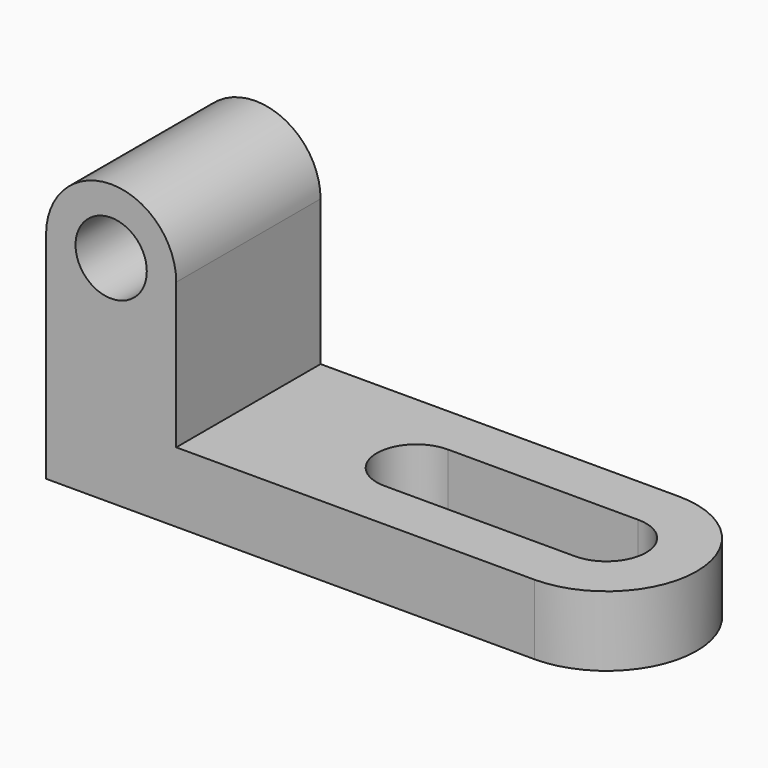
from build123d import *

# Parameters (mm, degrees)
F0_R     = 7.527389
F1_DEPTH = 38.1
F3_DEPTH = 14.789578
F4_DEPTH = 14.789578


with BuildPart() as f1:
    # F0 (on Front) → F1 (new body)
    with BuildSketch(Plane.XZ):
        with BuildLine():
            Line((-62.946253, -7.394289), (62.946253, -7.394289))
            Line((62.946253, -7.394289), (62.946253, 7.394289))
            Line((62.946253, 7.394289), (-35.454668, 7.394289))
            Line((-35.454668, 7.394289), (-35.454668, 38.109027))
            ThreePointArc((-35.454668, 38.109027), (-49.20046, 51.854819), (-62.946253, 38.109027))
            Line((-62.946253, 38.109027), (-62.946253, 7.394289))
            Line((-62.946253, 7.394289), (-62.946253, -7.394289))
        make_face()
        with Locations((-49.20046, 38.109027)):
            Circle(F0_R, mode=Mode.SUBTRACT)
    extrude(amount=F1_DEPTH)

    # F2 (on face) → F3 (cut, through all)
    with BuildSketch(Plane.XY.offset(7.394289)):
        with BuildLine():
            Line((0, -27.397288), (40.194597, -27.397288))
            ThreePointArc((40.194597, -27.397288), (48.541885, -19.05), (40.194597, -10.702712))
            Line((40.194597, -10.702712), (0, -10.702712))
            ThreePointArc((0, -10.702712), (-8.347288, -19.05), (0, -27.397288))
        make_face()
    extrude(amount=-F3_DEPTH, mode=Mode.SUBTRACT)

    # F2 (on face) → F4 (cut, through all)
    with BuildSketch(Plane.XY.offset(7.394289)):
        with BuildLine():
            Line((62.946253, 0), (40.194597, 0))
            ThreePointArc((40.194597, 0), (59.244597, -19.05), (40.194597, -38.1))
            Line((40.194597, -38.1), (62.946253, -38.1))
            Line((62.946253, -38.1), (62.946253, 0))
        make_face()
    extrude(amount=-F4_DEPTH, mode=Mode.SUBTRACT)


solid = f1.part
